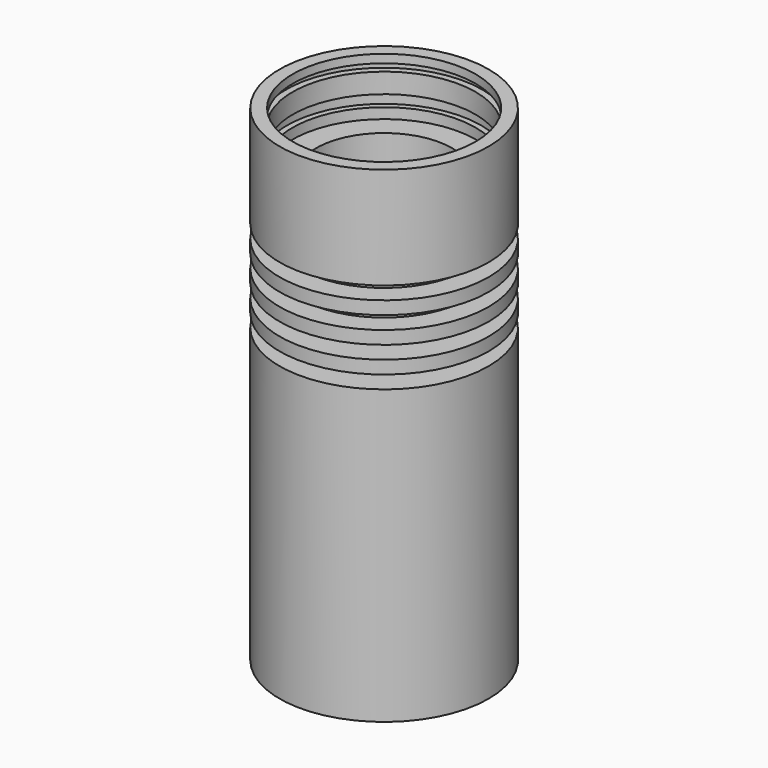
from build123d import *

# Parameters (mm, degrees)
CYLINDER002_R     = 18.75
CYLINDER002_DEPTH = 1.4
CYLINDER001_R     = 18.6
CYLINDER001_DEPTH = 2.2
SKETCH_R          = 18.7
PAD_DEPTH         = 24
SKETCH001_R       = 16
PAD001_DEPTH      = 30
SKETCH002_R       = 1
PAD002_DEPTH      = 12
SKETCH003_R       = 13
PAD003_DEPTH      = 16
SKETCH004_R       = 17.5
PAD004_DEPTH      = 11
SKETCH008_R       = 22
SKETCH008_R_2     = 12
PAD008_DEPTH      = 2.5
SKETCH007_R       = 22
SKETCH007_R_2     = 12
PAD007_DEPTH      = 2.5
SKETCH006_R       = 22
SKETCH006_R_2     = 16
PAD006_DEPTH      = 2.5
SKETCH005_R       = 22
SKETCH005_R_2     = 16
PAD005_DEPTH      = 2.5
CYLINDER_R        = 20
CYLINDER_DEPTH    = 93


with BuildPart() as obj1:
    # Cylinder002 → Cylinder002 (new body)
    with BuildSketch(Plane.XY.offset(90)):
        Circle(CYLINDER002_R)
    extrude(amount=CYLINDER002_DEPTH)


with BuildPart() as nut_radial:
    # Cylinder001 → Cylinder001 (new body)
    with BuildSketch(Plane.XY.offset(84)):
        Circle(CYLINDER001_R)
    extrude(amount=CYLINDER001_DEPTH)


with BuildPart() as obj2:
    # Sketch → Pad (new body)
    with BuildSketch(Plane.XY):
        Circle(SKETCH_R)
    extrude(amount=PAD_DEPTH)

    # Sketch001 → Pad001 (new body)
    with BuildSketch(Plane.XY.offset(24)):
        Circle(SKETCH001_R)
    extrude(amount=PAD001_DEPTH)

    # Sketch002 → Pad002 (new body)
    with BuildSketch(Plane.XY.offset(54)):
        with Locations((-9.2, 0)):
            Circle(SKETCH002_R)
    extrude(amount=PAD002_DEPTH)

    # Sketch003 → Pad003 (new body)
    with BuildSketch(Plane.XY.offset(66)):
        Circle(SKETCH003_R)
    extrude(amount=PAD003_DEPTH)

    # Sketch004 → Pad004 (new body)
    with BuildSketch(Plane.XY.offset(82)):
        Circle(SKETCH004_R)
    extrude(amount=PAD004_DEPTH)


with BuildPart() as pad008:
    # Sketch008 → Pad008 (new body)
    with BuildSketch(Plane.XY.offset(56)):
        Circle(SKETCH008_R)
        Circle(SKETCH008_R_2, mode=Mode.SUBTRACT)
    extrude(amount=PAD008_DEPTH)


with BuildPart() as pad007:
    # Sketch007 → Pad007 (new body)
    with BuildSketch(Plane.XY.offset(61)):
        Circle(SKETCH007_R)
        Circle(SKETCH007_R_2, mode=Mode.SUBTRACT)
    extrude(amount=PAD007_DEPTH)


with BuildPart() as pad006:
    # Sketch006 → Pad006 (new body)
    with BuildSketch(Plane.XY.offset(71)):
        Circle(SKETCH006_R)
        Circle(SKETCH006_R_2, mode=Mode.SUBTRACT)
    extrude(amount=PAD006_DEPTH)


with BuildPart() as pad005:
    # Sketch005 → Pad005 (new body)
    with BuildSketch(Plane.XY.offset(66)):
        Circle(SKETCH005_R)
        Circle(SKETCH005_R_2, mode=Mode.SUBTRACT)
    extrude(amount=PAD005_DEPTH)


with BuildPart() as cut012:
    # Cylinder → Cylinder (new body)
    with BuildSketch(Plane.XY):
        Circle(CYLINDER_R)
    extrude(amount=CYLINDER_DEPTH)

    # Cut: cut Pad005
    add(pad005.part, mode=Mode.SUBTRACT)

    # Cut001: cut Pad006
    add(pad006.part, mode=Mode.SUBTRACT)

    # Cut002: cut Pad007
    add(pad007.part, mode=Mode.SUBTRACT)

    # Cut003: cut Pad008
    add(pad008.part, mode=Mode.SUBTRACT)

    # Cut010: cut obj2
    add(obj2.part, mode=Mode.SUBTRACT)

    # Cut011: cut Nut Radial
    add(nut_radial.part, mode=Mode.SUBTRACT)

    # Cut012: cut obj1
    add(obj1.part, mode=Mode.SUBTRACT)


solid = cut012.part
